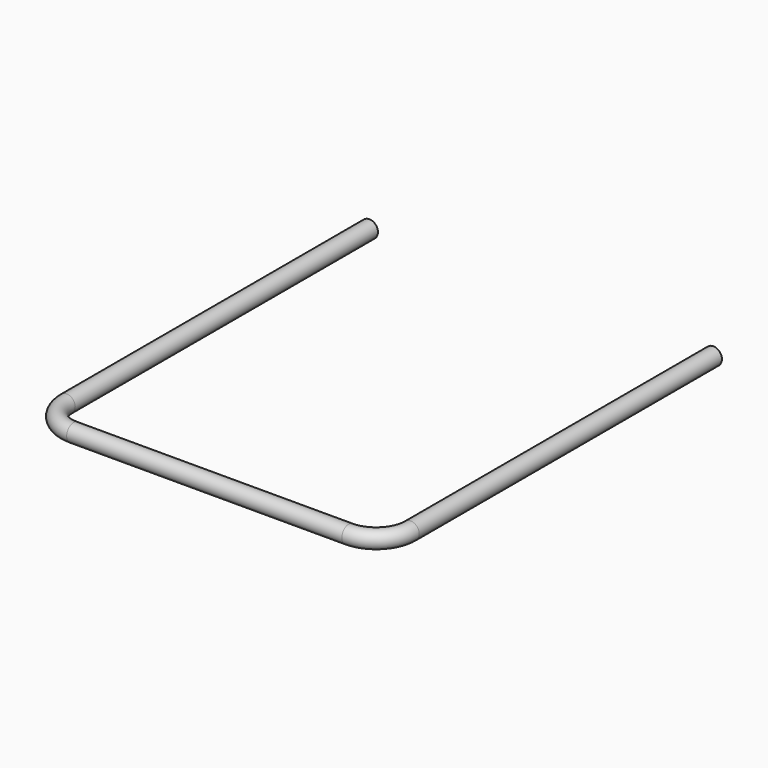
from build123d import *

# Parameters (mm, degrees)
F2_R = 0.25


with BuildPart() as f3:
    # F3: sweep along a path in F0
    with BuildLine(Plane.XY) as f3_path:
        Line((-5, 6), (-5, -5))
        ThreePointArc((-5, -5), (-4.7071067812, -5.7071067812), (-4, -6))
        Line((-4, -6), (4, -6))
        ThreePointArc((4, -6), (4.7071067812, -5.7071067812), (5, -5))
        Line((5, -5), (5, 6))
    # F2 (on plane+point) → F3 (sweep)
    with BuildSketch(Plane.XZ.offset(-6)):
        with Locations((-5, 0)):
            Circle(F2_R)
    sweep(path=f3_path.line)


solid = f3.part
